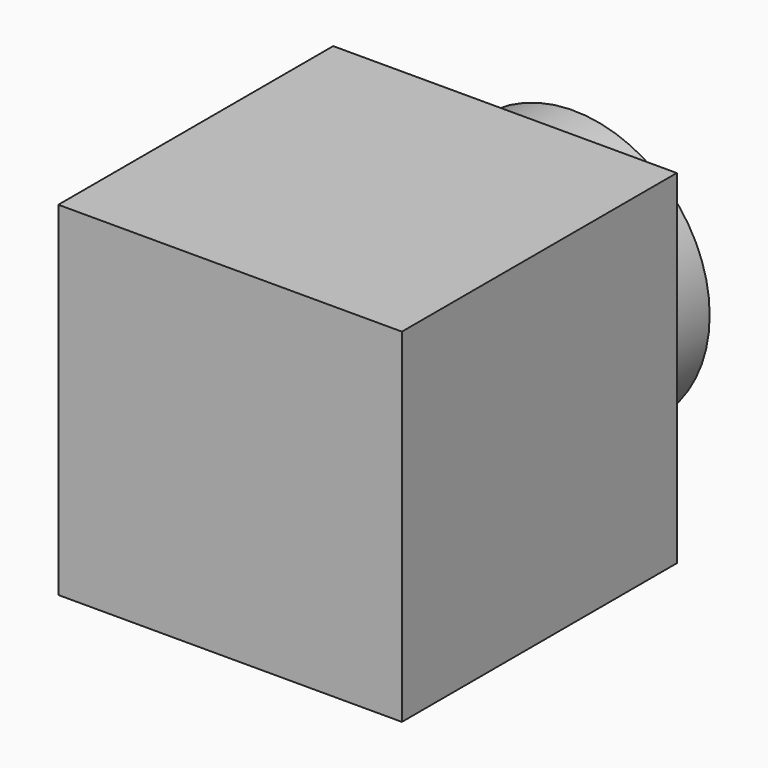
from build123d import *

# Parameters (mm, degrees)
F0_W     = 48
F0_H     = 48
F1_DEPTH = 48
F2_R     = 8
F3_DEPTH = 7
F3_TAPER = -3
F4_R     = 19
F5_DEPTH = 12


with BuildPart() as f1:
    # F0 (on Front) → F1 (new body)
    with BuildSketch(Plane.XZ):
        Rectangle(F0_W, F0_H)
    extrude(amount=F1_DEPTH)

    # F2 (on Front) → F3 (join)
    with BuildSketch(Plane.XZ):
        with Locations((-11.5896230564, 11.2924538553)):
            Circle(F2_R)
        with Locations((11.8867922574, 11.2924538553)):
            Circle(F2_R)
        with Locations((11.8867922574, -11.5896230564)):
            Circle(F2_R)
        with Locations((-11.5896230564, -11.5896230564)):
            Circle(F2_R)
    extrude(amount=F3_DEPTH, taper=F3_TAPER)

    # F4 (on Front) → F5 (join)
    with BuildSketch(Plane.XZ):
        Circle(F4_R)
    extrude(amount=-F5_DEPTH)


solid = f1.part
